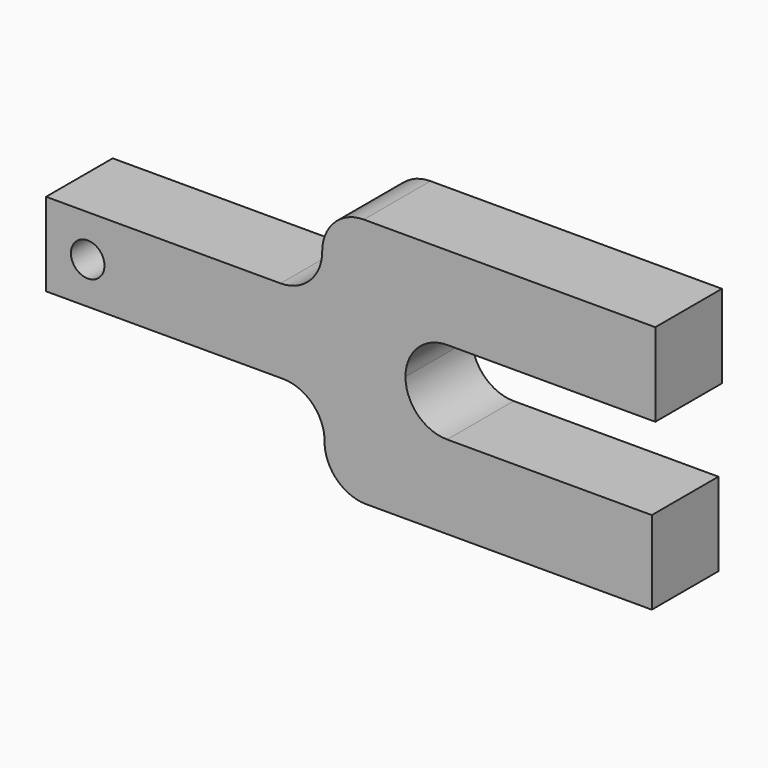
from build123d import *

# Parameters (mm, degrees)
F0_R     = 5.122277
F1_DEPTH = 12.7


with BuildPart() as f1:
    # F0 (on Front) → F1 (new body, symmetric)
    with BuildSketch(Plane.XZ):
        with BuildLine():
            Line((-167.027999, 0), (-94.760983, 0))
            ThreePointArc((-94.760983, 0), (-85.513701, -3.994957), (-82.084134, -13.466491))
            ThreePointArc((-82.084134, -13.466491), (-78.112329, -21.947282), (-69.407286, -25.4))
            Line((-69.407286, -25.4), (17.726313, -25.4))
            Line((17.726313, -25.4), (17.726313, 0))
            Line((17.726313, 0), (-44.7079, 0))
            ThreePointArc((-44.7079, 0), (-53.688157, 3.719744), (-57.4079, 12.7))
            ThreePointArc((-57.4079, 12.7), (-53.688157, 21.680256), (-44.7079, 25.4))
            Line((-44.7079, 25.4), (18.7921, 25.4))
            Line((18.7921, 25.4), (18.7921, 50.8))
            Line((18.7921, 50.8), (-70.1079, 50.8))
            ThreePointArc((-70.1079, 50.8), (-79.088157, 47.080256), (-82.8079, 38.1))
            ThreePointArc((-82.8079, 38.1), (-86.527644, 29.119744), (-95.5079, 25.4))
            Line((-95.5079, 25.4), (-167.027999, 25.4))
            Line((-167.027999, 25.4), (-167.027999, 0))
        make_face()
        with Locations((-154.327999, 12.7)):
            Circle(F0_R, mode=Mode.SUBTRACT)
    extrude(amount=F1_DEPTH, both=True)


solid = f1.part
